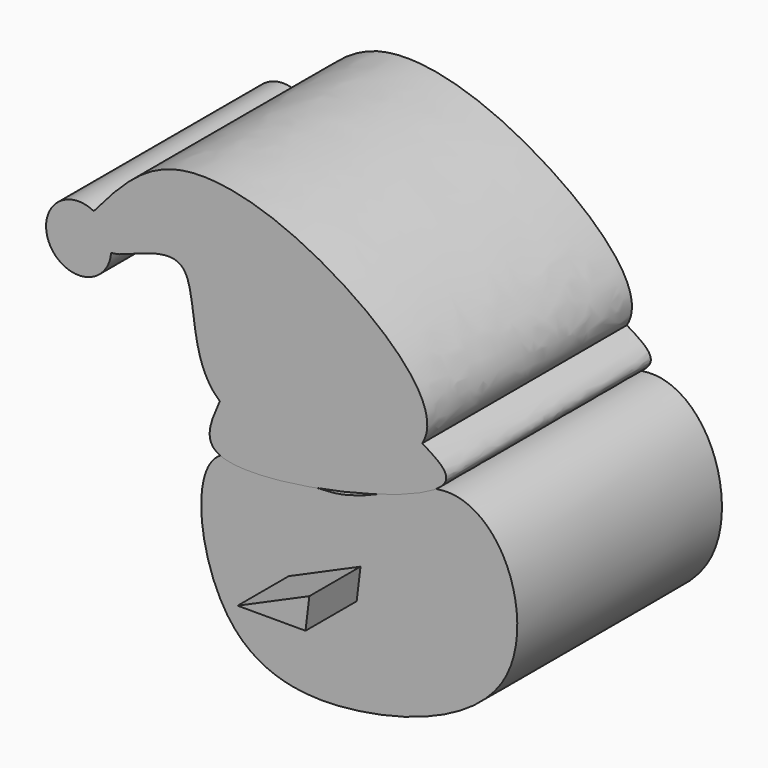
from build123d import *

# Parameters (mm, degrees)
F2_DEPTH = 25.4
F4_DEPTH = 6.35
F5_SCALE = 0.6


with BuildPart() as f2:
    # F0 (on Front) → F2 (new body)
    with BuildSketch(Plane.XZ):
        with BuildLine():
            ThreePointArc((-40.6161682943, 61.1429078759), (-39.3536002934, 59.953494838), (-38.888021679, 58.2825616002))
            ThreePointArc((-38.888021679, 58.2825616002), (-38.8898711122, 58.1732525853), (-38.8954172949, 58.0640686992))
            add(Edge.make_bspline(
                [(-28.0981007963, 48.6055649817), (-31.4708764934, 51.4526031333), (-29.1643410656, 62.2555594143), (-37.5722154962, 58.1555795781), (-38.5890968165, 58.0963298921), (-38.8954172949, 58.0640686992)],
                knots=[0.6925615651, 0.6925615651, 0.6925615651, 0.6925615651, 0.8420870555, 0.9480448397, 1, 1, 1, 1], degree=3))
            add(Edge.make_bspline(
                [(-8.0020697787, 51.4531135559), (-10.5781980993, 47.2163556642), (-23.5784485007, 44.7904217072), (-28.0981007963, 48.6055649817)],
                knots=[0.4921915179, 0.4921915179, 0.4921915179, 0.4921915179, 0.6925615651, 0.6925615651, 0.6925615651, 0.6925615651], degree=3))
            add(Edge.make_bspline(
                [(-40.6161682943, 61.1429078759), (-38.3690135462, 63.769698169), (-33.1918541128, 69.8600339633), (-16.8225880057, 65.1834350976), (-5.8158750321, 55.0485780256), (-8.0020697787, 51.4531135559)],
                knots=[0, 0, 0, 0, 0.1404592869, 0.3221503203, 0.4921915179, 0.4921915179, 0.4921915179, 0.4921915179], degree=3))
        make_face()
        with BuildLine():
            ThreePointArc((-38.8954172949, 58.0640686992), (-38.8898711122, 58.1732525853), (-38.888021679, 58.2825616002))
            ThreePointArc((-38.888021679, 58.2825616002), (-39.3536002934, 59.953494838), (-40.6161682943, 61.1429078759))
            ThreePointArc((-40.6161682943, 61.1429078759), (-44.9398420541, 56.7061437261), (-38.8954172949, 58.0640686992))
        make_face()
        with BuildLine():
            add(Edge.make_bspline(
                [(-28.0981007963, 48.6055649817), (-28.9700208373, 46.6467519381), (-31.7559546536, 40.3880088861), (-1.3234175051, 47.4233382463), (-6.5253872608, 50.5621106249), (-8.0020697787, 51.4531135559)],
                knots=[0, 0, 0, 0, 0.2459828233, 0.7859572363, 1, 1, 1, 1], degree=3))
            add(Edge.make_bspline(
                [(-8.0020697787, 51.4531135559), (-10.5781980993, 47.2163556642), (-23.5784485007, 44.7904217072), (-28.0981007963, 48.6055649817)],
                knots=[0.4921915179, 0.4921915179, 0.4921915179, 0.4921915179, 0.6925615651, 0.6925615651, 0.6925615651, 0.6925615651], degree=3))
        make_face()
    extrude(amount=F2_DEPTH)


with BuildPart() as f2b:
    # F1 (on Front) → F2, piece 2 (new body)
    with BuildSketch(Plane.XZ):
        with BuildLine():
            add(Edge.make_bspline(
                [(-16.8056879193, 44.2619659007), (-21.1459246801, 43.7251862289), (-31.9446094829, 47.797566174), (-29.0055995645, 26.5217580803), (-14.3485152115, 24.6250354788), (2.5870116852, 31.0864439531), (1.4007985818, 44.9368109993), (-6.3861769921, 50.0445317506), (-12.5345478863, 44.7902000204), (-16.8056879193, 44.2619659007)],
                knots=[0, 0, 0, 0, 0.142225097, 0.2957645636, 0.4463050197, 0.6124920448, 0.7502458549, 0.8600391318, 1, 1, 1, 1], degree=3))
        make_face()
    extrude(amount=F2_DEPTH)

    # F3 (on face) → F4 (join)
    with BuildSketch(Plane.XZ.offset(25.4)):
        Polygon((-14.5093370229, 35.5329401791), (-14.1283748671, 38.6825501919), (-21.2542749941, 35.5329401791), align=None)
    extrude(amount=F4_DEPTH)


with BuildPart() as f2b_1:
    # F5: moved
    add(f2b.part.scale(F5_SCALE))


with BuildPart() as f2_1:
    # F5: moved
    add(f2.part.scale(F5_SCALE))


solid = Compound([f2b_1.part, f2_1.part])
